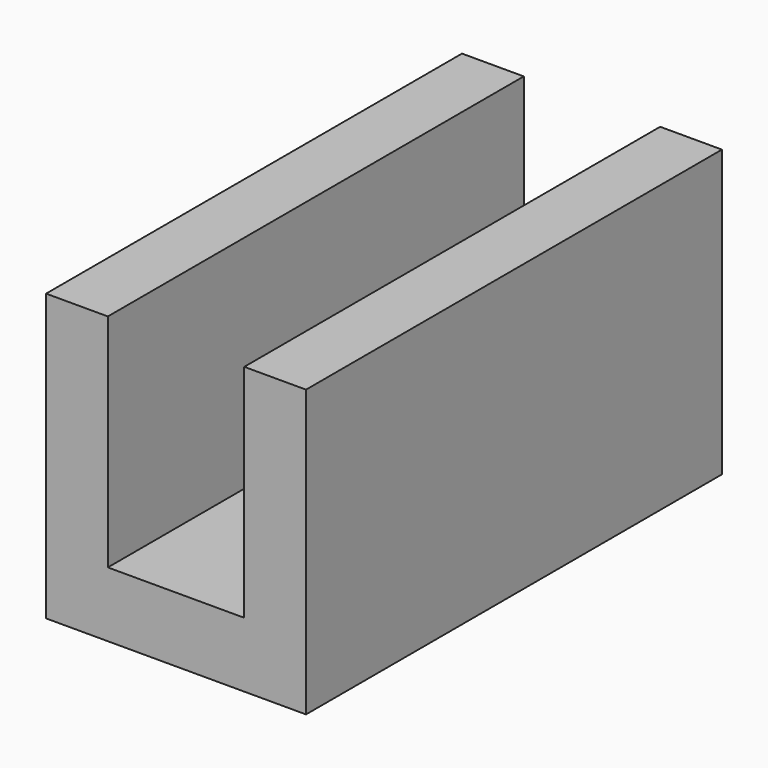
from build123d import *

# Parameters (mm, degrees)
F0_W     = 50.8
F0_H     = 101.6
F1_DEPTH = 25.4
F2_W     = 26.6550015658
F2_H     = 101.6
F3_DEPTH = 38.1
F4_DEPTH = 25.4
F5_DEPTH = 25.4
F6_DEPTH = 20.32


with BuildPart() as f1:
    # F0 (on Top) → F1 (new body, symmetric)
    with BuildSketch(Plane.XY):
        Rectangle(F0_W, F0_H)
    extrude(amount=F1_DEPTH, both=True)

    # F2 (on face) → F3 (cut)
    with BuildSketch(Plane.XY.offset(25.4)):
        Rectangle(F2_W, F2_H)
    extrude(amount=-F3_DEPTH, mode=Mode.SUBTRACT)

    # F4 (add): a face of the model
    f4_faces = [f1.faces().sort_by_distance(p)[0] for p in [
        (-19.3637503915, 0, 25.4),
    ]]
    extrude(f4_faces, amount=F4_DEPTH)

    # F5 (add): a face of the model
    f5_faces = [f1.faces().sort_by_distance(p)[0] for p in [
        (19.3637503915, 0, 25.4),
    ]]
    extrude(f5_faces, amount=F5_DEPTH)

    # F6 (cut): faces of the model
    f6_faces = [f1.faces().sort_by_distance(p)[0] for p in [
        (19.3637503915, 0, 50.8),
        (-19.3637503915, 0, 50.8),
    ]]
    extrude(f6_faces, amount=-F6_DEPTH, mode=Mode.SUBTRACT)


solid = f1.part
